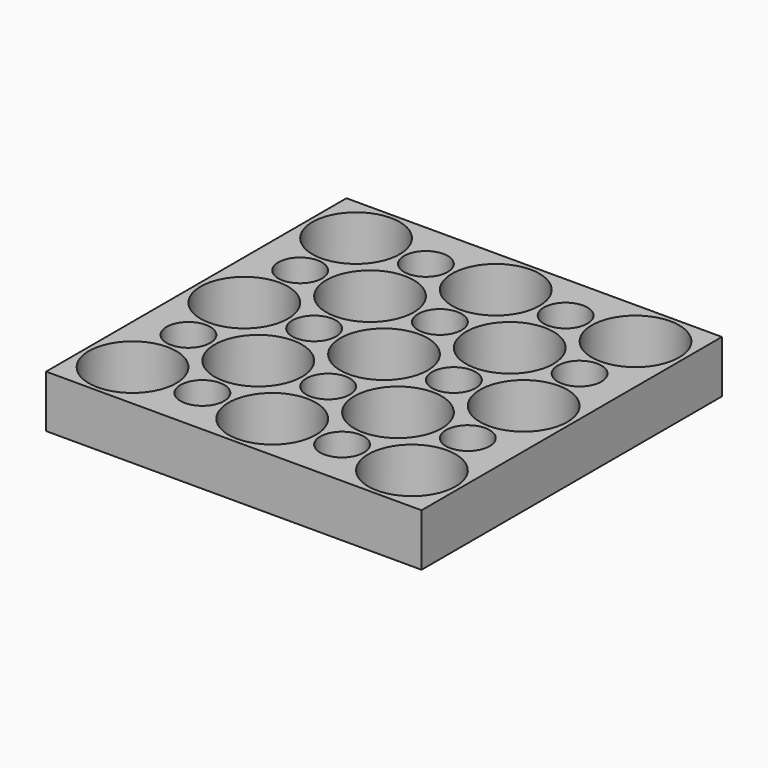
from build123d import *

# Parameters (mm, degrees)
F0_W     = 43
F0_H     = 43
F0_R     = 5
F0_R_2   = 2.5
F1_DEPTH = 6


with BuildPart() as f1:
    # F0 (on Top) → F1 (new body)
    with BuildSketch(Plane.XY):
        with Locations((-16, -16)):
            Rectangle(F0_W, F0_H)
        with Locations((-32, -32)):
            Circle(F0_R, mode=Mode.SUBTRACT)
        with Locations((-24, -32)):
            Circle(F0_R_2, mode=Mode.SUBTRACT)
        with Locations((-32, -24)):
            Circle(F0_R_2, mode=Mode.SUBTRACT)
        with Locations((-24, -24)):
            Circle(F0_R, mode=Mode.SUBTRACT)
        with Locations((-16, -32)):
            Circle(F0_R, mode=Mode.SUBTRACT)
        with Locations((-8, -32)):
            Circle(F0_R_2, mode=Mode.SUBTRACT)
        with Locations((0, -32)):
            Circle(F0_R, mode=Mode.SUBTRACT)
        with Locations((-16, -24)):
            Circle(F0_R_2, mode=Mode.SUBTRACT)
        with Locations((-8, -24)):
            Circle(F0_R, mode=Mode.SUBTRACT)
        with Locations((0, -24)):
            Circle(F0_R_2, mode=Mode.SUBTRACT)
        with Locations((-32, -16)):
            Circle(F0_R, mode=Mode.SUBTRACT)
        with Locations((-32, -8)):
            Circle(F0_R_2, mode=Mode.SUBTRACT)
        with Locations((-24, -16)):
            Circle(F0_R_2, mode=Mode.SUBTRACT)
        with Locations((-24, -8)):
            Circle(F0_R, mode=Mode.SUBTRACT)
        with Locations((-32, 0)):
            Circle(F0_R, mode=Mode.SUBTRACT)
        with Locations((-24, 0)):
            Circle(F0_R_2, mode=Mode.SUBTRACT)
        with Locations((-16, -16)):
            Circle(F0_R, mode=Mode.SUBTRACT)
        with Locations((-8, -16)):
            Circle(F0_R_2, mode=Mode.SUBTRACT)
        with Locations((-16, -8)):
            Circle(F0_R_2, mode=Mode.SUBTRACT)
        with Locations((-8, -8)):
            Circle(F0_R, mode=Mode.SUBTRACT)
        with Locations((0, -16)):
            Circle(F0_R, mode=Mode.SUBTRACT)
        with Locations((0, -8)):
            Circle(F0_R_2, mode=Mode.SUBTRACT)
        with Locations((-16, 0)):
            Circle(F0_R, mode=Mode.SUBTRACT)
        with Locations((-8, 0)):
            Circle(F0_R_2, mode=Mode.SUBTRACT)
        Circle(F0_R, mode=Mode.SUBTRACT)
    extrude(amount=F1_DEPTH)


solid = f1.part
